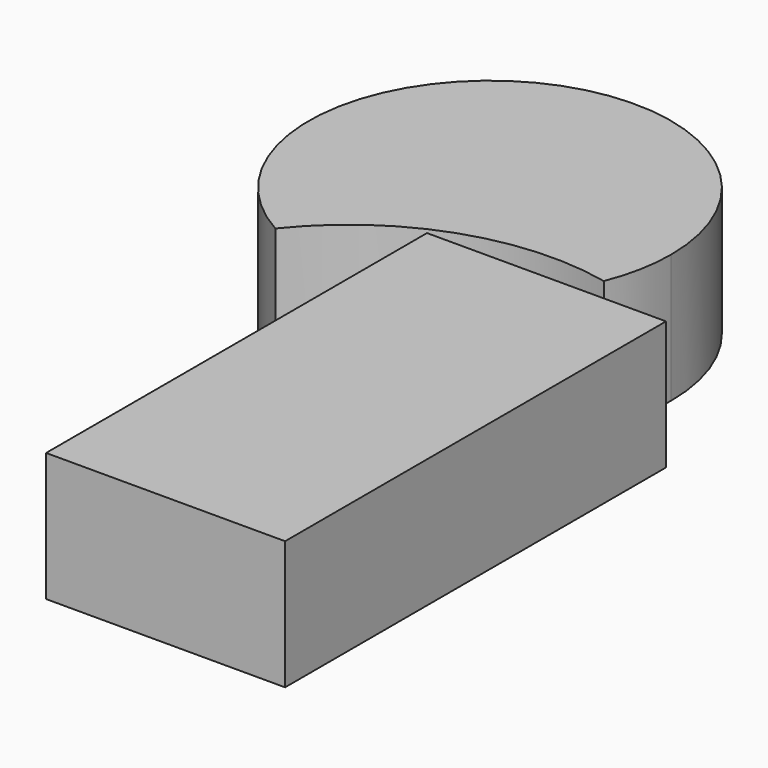
from build123d import *

# Parameters (mm, degrees)
F0_W     = 47.187932
F0_H     = 94.006688
F1_DEPTH = 25.4
F3_DEPTH = 25.4


with BuildPart() as f1:
    # F0 (on Top) → F1 (new body)
    with BuildSketch(Plane.XY):
        with Locations((42.387802, 16.81228)):
            Rectangle(F0_W, F0_H)
    extrude(amount=F1_DEPTH)


with BuildPart() as f3:
    # F2 (on Top) → F3 (new body)
    with BuildSketch(Plane.XY):
        with BuildLine():
            ThreePointArc((-0.418847, 50.415695), (22.265938, 66.613218), (50.086956, 68.33081))
            ThreePointArc((50.086956, 68.33081), (52.025609, 74.891057), (52.679804, 81.700407))
            ThreePointArc((52.679804, 81.700407), (-1.241174, 112.515176), (-0.418847, 50.415695))
        make_face()
    extrude(amount=F3_DEPTH)


solid = Compound([f1.part, f3.part])
